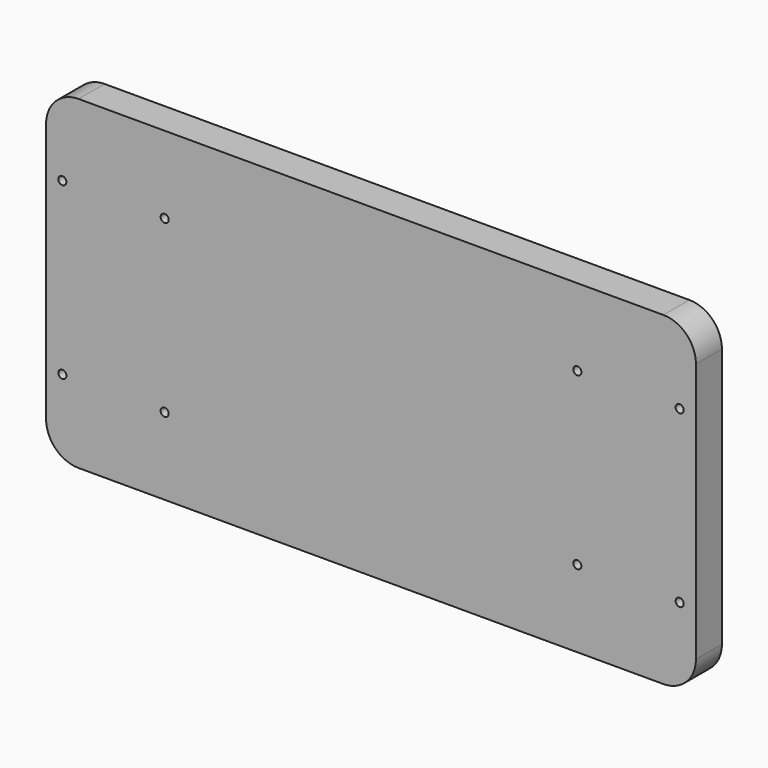
from build123d import *

# Parameters (mm, degrees)
F1_DEPTH = 25.4
F3_D     = 6.35


with BuildPart() as f1:
    # F0 (on Front) → F1 (new body)
    with BuildSketch(Plane.XZ):
        with BuildLine():
            Line((0, 228.6), (0, 25.4))
            ThreePointArc((0, 25.4), (7.439488, 7.439488), (25.4, 0))
            Line((25.4, 0), (482.6, 0))
            ThreePointArc((482.6, 0), (500.560512, 7.439488), (508, 25.4))
            Line((508, 25.4), (508, 228.6))
            ThreePointArc((508, 228.6), (500.560512, 246.560512), (482.6, 254))
            Line((482.6, 254), (25.4, 254))
            ThreePointArc((25.4, 254), (7.439488, 246.560512), (0, 228.6))
        make_face()
    extrude(amount=F1_DEPTH)

    # F3 (through all)
    with Locations(Plane.XZ.offset(25.4)):
        with Locations((12.7, 193.675), (92.71, 193.675), (12.7, 60.325), (92.71, 60.325), (415.29, 193.675), (495.3, 193.675), (415.29, 60.325), (495.3, 60.325)):
            Hole(F3_D / 2)


solid = f1.part
